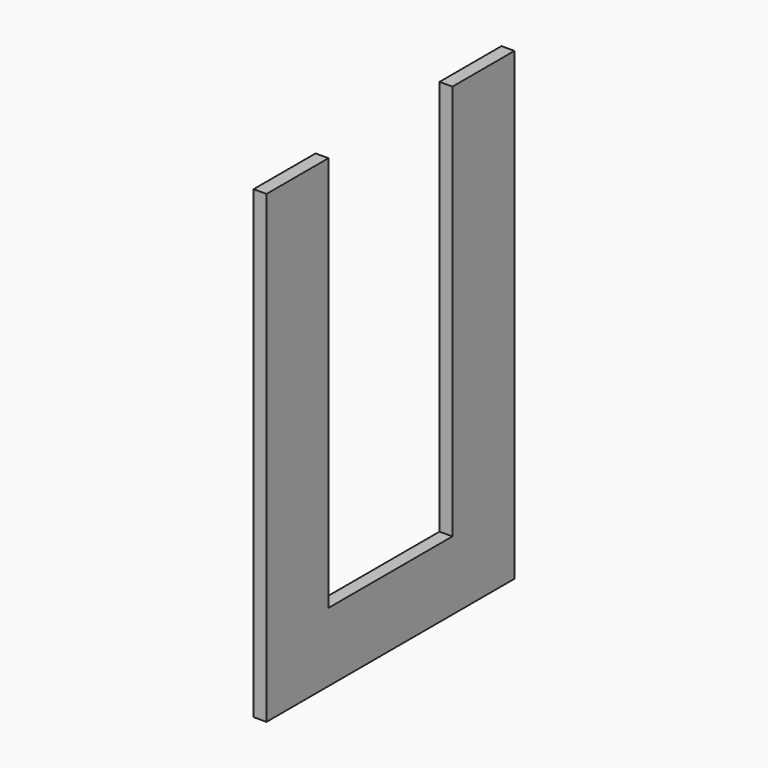
from build123d import *

# Parameters (mm, degrees)
F0_W     = 228.6
F0_H     = 101.6
F1_DEPTH = 19.05


with BuildPart() as f1:
    # F0 (on Right) → F1 (new body)
    with BuildSketch(Plane.YZ):
        Polygon((-114.3, -241.3), (-114.3, 342.9), (-228.6, 342.9), (-228.6, -342.9), (-114.3, -342.9), align=None)
        with Locations((0, -292.1)):
            Rectangle(F0_W, F0_H)
        Polygon((228.6, -342.9), (228.6, 342.9), (114.3, 342.9), (114.3, -241.3), (114.3, -342.9), align=None)
    extrude(amount=F1_DEPTH)


solid = f1.part
